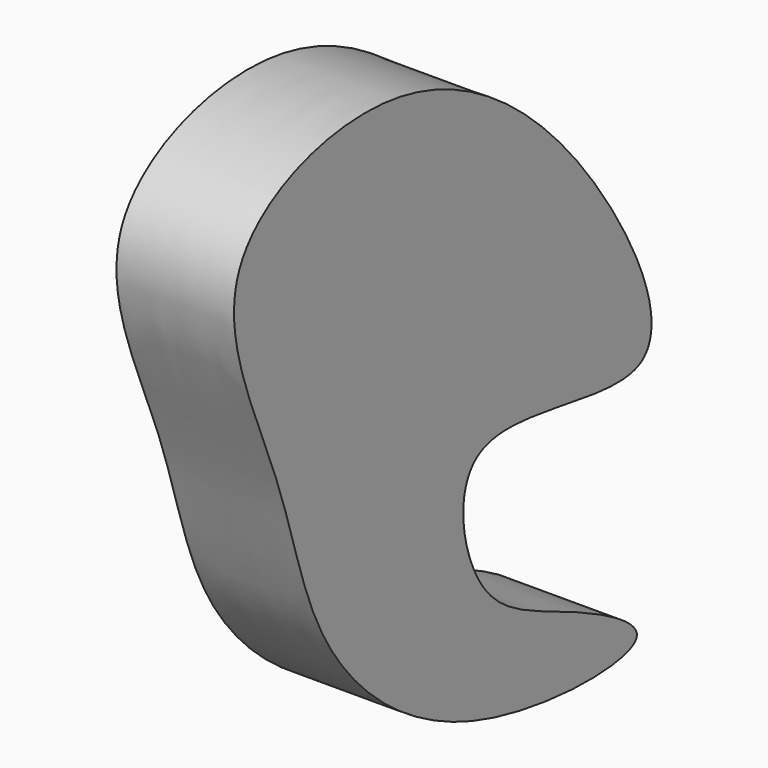
from build123d import *

# Parameters (mm, degrees)
F1_DEPTH = 25.4


with BuildPart() as f1:
    # F0 (on Right) → F1 (new body)
    with BuildSketch(Plane.YZ):
        with BuildLine():
            add(Edge.make_bspline(
                [(-55.1925450563, 29.5012705028), (-50.0496212911, 15.8161763908), (-46.1291171911, -9.1506750814), (-7.5512816264, -44.4752453949), (57.5134220553, -44.8799961666), (21.2682312137, -26.0930794712), (-2.6089202299, -18.9768890906), (-9.9724198766, 24.8810137706), (59.5854832738, -3.400746014), (32.1281615703, 57.3275030708), (-17.6172847521, 98.6930598522), (-79.2700010809, 78.228719077), (-60.6903127403, 44.1305886875), (-55.1925450563, 29.5012705028)],
                knots=[0, 0, 0, 0, 0.0898630871, 0.1943062643, 0.2879740413, 0.3555542902, 0.4324004533, 0.5039594966, 0.5985970026, 0.6893820577, 0.8081422682, 0.9039366713, 1, 1, 1, 1], degree=3))
        make_face()
    extrude(amount=F1_DEPTH)


solid = f1.part
